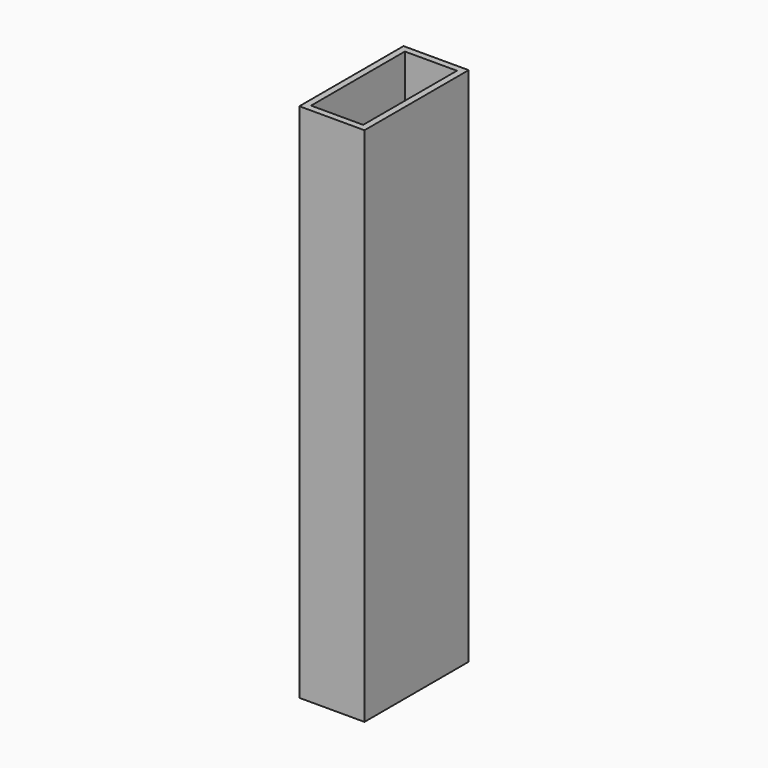
from build123d import *

# Parameters (mm, degrees)
F0_W     = 25.4
F0_H     = 203.2
F1_DEPTH = 50.8
F2_T     = -2.54


with BuildPart() as f1:
    # F0 (on Front) → F1 (new body)
    with BuildSketch(Plane.XZ):
        with Locations((-5.367815, 36.686394)):
            Rectangle(F0_W, F0_H)
    extrude(amount=F1_DEPTH)

    # F2
    f2_openings = [f1.faces().sort_by_distance(p)[0] for p in [
        (-5.367815, -25.4, 138.286394),
        (-5.367815, -25.4, -64.913606),
    ]]
    offset(amount=F2_T, openings=f2_openings)


solid = f1.part
